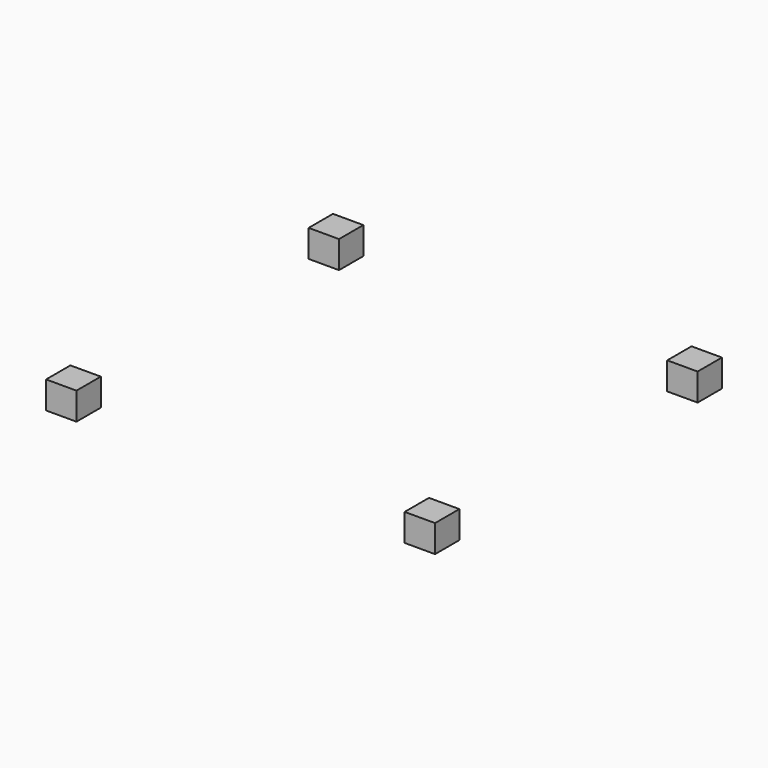
from build123d import *

# Parameters (mm, degrees)
BOX002_W     = 1
BOX002_H     = 1
BOX002_DEPTH = 0.9
BOX003_W     = 1
BOX003_H     = 1
BOX003_DEPTH = 0.9
BOX001_W     = 1
BOX001_H     = 1
BOX001_DEPTH = 0.9
BOX004_W     = 1
BOX004_H     = 1
BOX004_DEPTH = 0.9


with BuildPart() as cube002:
    # Box002 → Box002 (new body)
    with BuildSketch(Plane(origin=(13.8, 4.9, 0), x_dir=(1, 0, 0), z_dir=(0, 0, 1))):
        with Locations((0.5, 0.5)):
            Rectangle(BOX002_W, BOX002_H)
    extrude(amount=BOX002_DEPTH)


with BuildPart() as cube003:
    # Box003 → Box003 (new body)
    with BuildSketch(Plane(origin=(2, -5.9, 0), x_dir=(1, 0, 0), z_dir=(0, 0, 1))):
        with Locations((0.5, 0.5)):
            Rectangle(BOX003_W, BOX003_H)
    extrude(amount=BOX003_DEPTH)


with BuildPart() as cube001:
    # Box001 → Box001 (new body)
    with BuildSketch(Plane(origin=(2, 4.9, 0), x_dir=(1, 0, 0), z_dir=(0, 0, 1))):
        with Locations((0.5, 0.5)):
            Rectangle(BOX001_W, BOX001_H)
    extrude(amount=BOX001_DEPTH)


with BuildPart() as pods:
    # Box004 → Box004 (new body)
    with BuildSketch(Plane(origin=(13.8, -5.9, 0), x_dir=(1, 0, 0), z_dir=(0, 0, 1))):
        with Locations((0.5, 0.5)):
            Rectangle(BOX004_W, BOX004_H)
    extrude(amount=BOX004_DEPTH)

    # Fusion004: union Cube002, Cube003, Cube001
    add(cube002.part)
    add(cube003.part)
    add(cube001.part)


solid = pods.part
